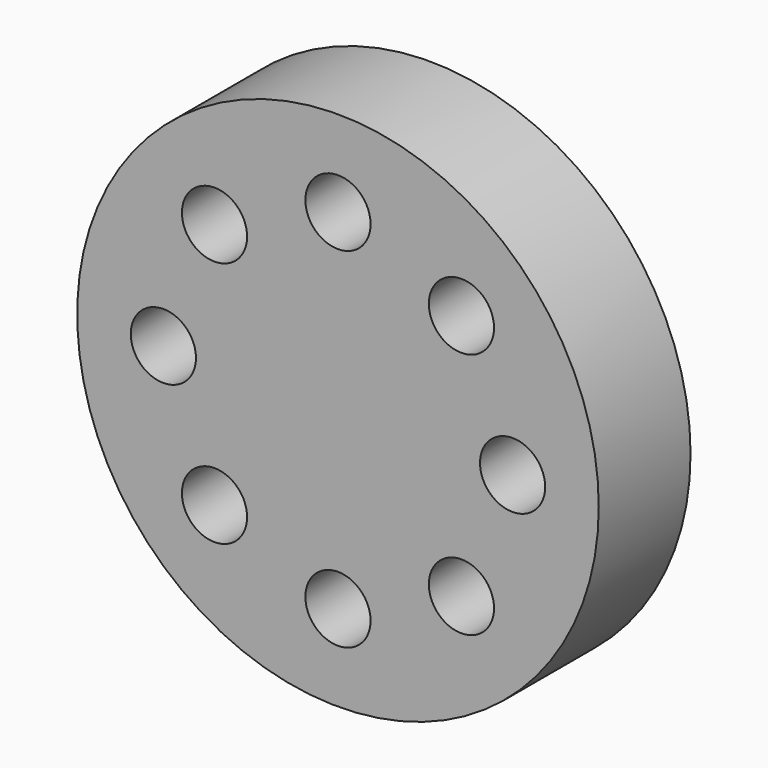
from build123d import *

# Parameters (mm, degrees)
F0_R     = 12.7
F0_R_2   = 1.5875
F0_R_3   = 6.35
F0_R_4   = 3.175
F1_DEPTH = 5.588
F2_R     = 1.5875
F3_DEPTH = 6.35


with BuildPart() as f1:
    # F0 (on Front) → F1 (new body)
    with BuildSketch(Plane.XZ):
        Circle(F0_R)
        with Locations((-6.0124402351, -6.0124402351)):
            Circle(F0_R_2, mode=Mode.SUBTRACT)
        with Locations((0, -8.5028745234)):
            Circle(F0_R_2, mode=Mode.SUBTRACT)
        with Locations((6.0124402351, -6.0124402351)):
            Circle(F0_R_2, mode=Mode.SUBTRACT)
        with Locations((-8.5028745234, 0)):
            Circle(F0_R_2, mode=Mode.SUBTRACT)
        with Locations((-6.0124402351, 6.0124402351)):
            Circle(F0_R_2, mode=Mode.SUBTRACT)
        Circle(F0_R_3, mode=Mode.SUBTRACT)
        with Locations((6.0124402351, 6.0124402351)):
            Circle(F0_R_2, mode=Mode.SUBTRACT)
        with Locations((8.5028745234, 0)):
            Circle(F0_R_2, mode=Mode.SUBTRACT)
        with Locations((0, 8.5028745234)):
            Circle(F0_R_2, mode=Mode.SUBTRACT)
        Circle(F0_R_3)
        Circle(F0_R_4, mode=Mode.SUBTRACT)
        Circle(F0_R_4)
    extrude(amount=-F1_DEPTH)

    # F2 (on Front) → F3 (join)
    with BuildSketch(Plane.XZ):
        Circle(F2_R)
    extrude(amount=-F3_DEPTH)


solid = f1.part
